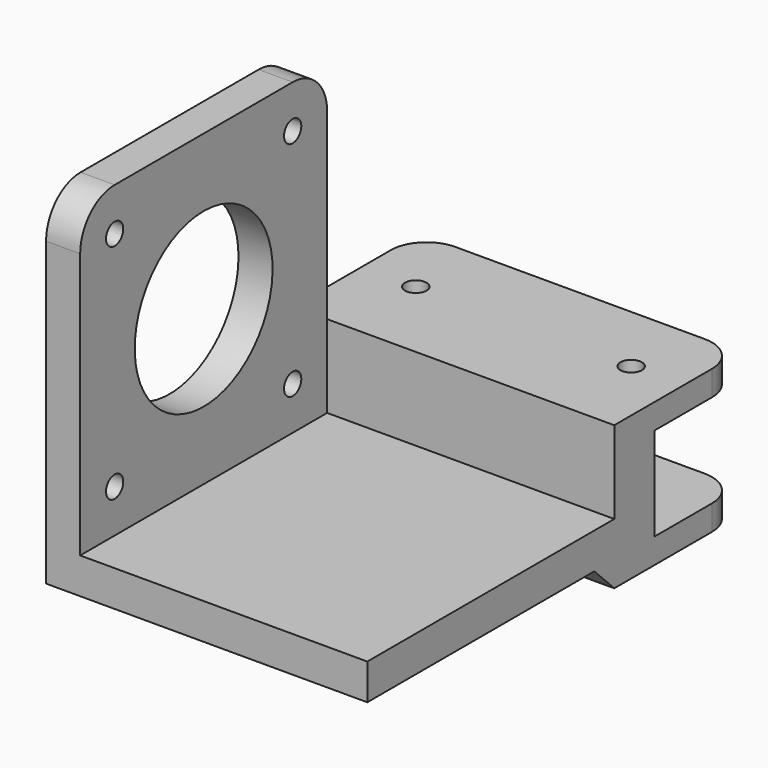
from build123d import *

# Parameters (mm, degrees)
PAD_DEPTH       = 43
SKETCH001_R     = 12
SKETCH001_R_2   = 1.5
POCKET_DEPTH    = 5
POCKET_FACE5_W  = 43
POCKET_FACE5_H  = 44.75
POCKET001_DEPTH = 15.5
SKETCH002_W     = 44.75
SKETCH002_H     = 20
PAD001_DEPTH    = 7
SKETCH003_W     = 44.75
SKETCH003_H     = 4.5
PAD002_DEPTH    = 15
SKETCH004_R     = 1.5
POCKET002_DEPTH = 20.001
CHAMFER_SIZE    = 3.49
FILLET_R        = 6
FILLET001_R     = 5
SKETCH005_W     = 48.7
SKETCH005_H     = 13
POCKET003_DEPTH = 15


with BuildPart() as part:
    # Sketch → Pad (new body)
    with BuildSketch(Plane.XZ):
        Polygon((0, 48), (0, -15.5), (44.75, -15.5), (44.75, -10.5), (4.75, -10.5), (4.75, 0), (44.75, 0), (44.75, 5), (4.75, 5), (4.75, 48), align=None)
    extrude(amount=PAD_DEPTH)

    # Sketch001 → Pocket (cut)
    with BuildSketch(Plane(origin=(4.75, 0, 0), x_dir=(0, 0, 1), z_dir=(1, 0, 0))):
        with Locations((26.5, 21.5)):
            Circle(SKETCH001_R)
        with Locations((11, 6)):
            Circle(SKETCH001_R_2)
        with Locations((11, 37)):
            Circle(SKETCH001_R_2)
        with Locations((42, 37)):
            Circle(SKETCH001_R_2)
        with Locations((42, 6)):
            Circle(SKETCH001_R_2)
    extrude(amount=-POCKET_DEPTH, mode=Mode.SUBTRACT)

    # Pocket Face5 → Pocket001 (cut)
    with BuildSketch(Plane(origin=(22.375, -21.5, -15.5), x_dir=(0, -1, 0), z_dir=(0, 0, -1))):
        Rectangle(POCKET_FACE5_W, POCKET_FACE5_H)
    extrude(amount=-POCKET001_DEPTH, mode=Mode.SUBTRACT)

    # Sketch002 (on Face2 of Pocket001) → Pad001 (join)
    with BuildSketch(Plane(origin=(0, 0, 0), x_dir=(1, 0, 0), z_dir=(0, 1, 0))):
        with Locations((22.375, -6.5)):
            Rectangle(SKETCH002_W, SKETCH002_H)
    extrude(amount=PAD001_DEPTH)

    # Sketch003 (on Face14 of Pad001) → Pad002 (join)
    with BuildSketch(Plane(origin=(0, 7, 0), x_dir=(1, 0, 0), z_dir=(0, 1, 0))):
        with Locations((22.375, -14.25)):
            Rectangle(SKETCH003_W, SKETCH003_H)
        with Locations((22.375, 1.25)):
            Rectangle(SKETCH003_W, SKETCH003_H)
    extrude(amount=PAD002_DEPTH)

    # Sketch004 (on Face22 of Pad002) → Pocket002 (cut, through all)
    with BuildSketch(Plane(origin=(0, 0, 16.5), x_dir=(-1, 0, 0), z_dir=(0, 0, 1))):
        with Locations((-37.5, -12)):
            Circle(SKETCH004_R)
        with Locations((-7.5, -12)):
            Circle(SKETCH004_R)
    extrude(amount=-POCKET002_DEPTH, mode=Mode.SUBTRACT)

    # Chamfer
    chamfer_edges = [part.edges().sort_by_distance(p)[0] for p in [
        (22.375, 0, 0),
    ]]
    chamfer(chamfer_edges, length=CHAMFER_SIZE)

    # Fillet
    fillet_edges = [part.edges().sort_by_distance(p)[0] for p in [
        (2.375, -43, 48),
        (2.375, 0, 48),
    ]]
    fillet(fillet_edges, radius=FILLET_R)

    # Fillet001
    fillet001_edges = [part.edges().sort_by_distance(p)[0] for p in [
        (0, 22, 14.25),
        (0, 22, -1.25),
        (44.75, 22, 14.25),
        (44.75, 22, -1.25),
    ]]
    fillet(fillet001_edges, radius=FILLET001_R)

    # Sketch005 (on Face28 of Fillet001) → Pocket003 (cut)
    with BuildSketch(Plane(origin=(0, 22, 0), x_dir=(1, 0, 0), z_dir=(0, 1, 0))):
        with Locations((24.35, -6.5)):
            Rectangle(SKETCH005_W, SKETCH005_H)
    extrude(amount=-POCKET003_DEPTH, mode=Mode.SUBTRACT)


solid = part.part
